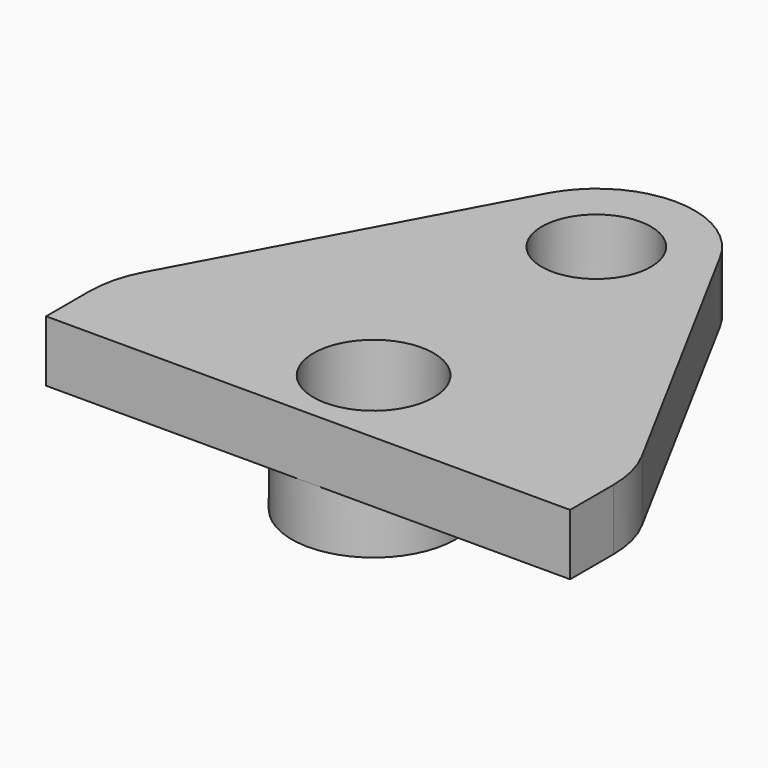
from build123d import *

# Parameters (mm, degrees)
F0_R     = 3.75
F0_R_2   = 2.75
F1_DEPTH = 2.6
F2_R     = 2.75
F2_R_2   = 2.5
F3_DEPTH = 2.8


with BuildPart() as f1:
    # F0 (on Top) → F1 (new body)
    with BuildSketch(Plane.XY):
        Circle(F0_R)
        Circle(F0_R_2, mode=Mode.SUBTRACT)
    extrude(amount=-F1_DEPTH)

    # F2 (on Top) → F3 (join)
    with BuildSketch(Plane.XY):
        with BuildLine():
            Line((-12, -3.75), (12, -3.75))
            Line((12, -3.75), (12, -1.26387))
            ThreePointArc((12, -1.26387), (11.847532, -0.03854), (11.399426, 1.112061))
            Line((11.399426, 1.112061), (3.959484, 14.888338))
            ThreePointArc((3.959484, 14.888338), (0, 17.25), (-3.959484, 14.888338))
            Line((-3.959484, 14.888338), (-11.399426, 1.112061))
            ThreePointArc((-11.399426, 1.112061), (-11.847532, -0.03854), (-12, -1.26387))
            Line((-12, -1.26387), (-12, -3.75))
        make_face()
        Circle(F2_R, mode=Mode.SUBTRACT)
        with Locations((0, 12.75)):
            Circle(F2_R_2, mode=Mode.SUBTRACT)
    extrude(amount=F3_DEPTH)


solid = f1.part
